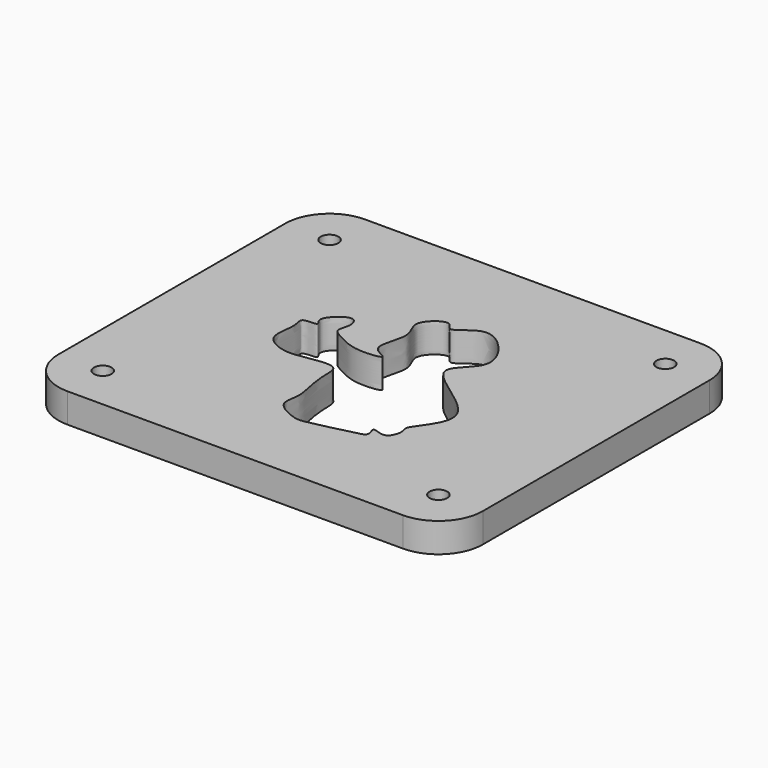
from build123d import *

# Parameters (mm, degrees)
F0_R     = 1.5
F1_DEPTH = 5


with BuildPart() as f1:
    # F0 (on Top) → F1 (new body)
    with BuildSketch(Plane.XY):
        with BuildLine():
            ThreePointArc((36.115, 24.13), (33.9065851301, 29.4615851301), (28.575, 31.67))
            Line((28.575, 31.67), (-28.575, 31.67))
            ThreePointArc((-28.575, 31.67), (-33.9065851301, 29.4615851301), (-36.115, 24.13))
            Line((-36.115, 24.13), (-36.115, -24.13))
            ThreePointArc((-36.115, -24.13), (-33.9065851301, -29.4615851301), (-28.575, -31.67))
            Line((-28.575, -31.67), (28.575, -31.67))
            ThreePointArc((28.575, -31.67), (33.9065851301, -29.4615851301), (36.115, -24.13))
            Line((36.115, -24.13), (36.115, 24.13))
        make_face()
        with Locations((-28.575, -24.13)):
            Circle(F0_R, mode=Mode.SUBTRACT)
        with Locations((28.575, -24.13)):
            Circle(F0_R, mode=Mode.SUBTRACT)
        with BuildLine():
            add(Edge.make_bspline(
                [(3.608973464, 16.1887034774), (2.171478593, 15.7227240843), (-0.1653323347, 12.8541616063), (-1.0015044911, 16.4801261118), (-5.849912091, 12.5702857027), (-2.196174551, 9.3719001246), (-5.6798757303, 3.4193753287), (-0.3424935067, 2.1318340705), (-6.4857255106, 1.3428230684), (-9.7211473353, 3.1977411729), (-12.0036311455, 4.3531492968), (-10.745480396, 6.6777362098), (-11.6646980606, 8.5795703079), (-13.496173318, 8.0752055155), (-15.9981659821, 5.5064797571), (-13.8838501889, 3.8259538881), (-17.7097684853, 4.3414842321), (-16.3632984322, 1.8503748311), (-17.9710058408, -2.7353167522), (-13.3129197506, -4.9276028672), (-9.8214206249, -4.2641033403), (-4.6174981093, -3.4167671203), (-4.8184035522, -6.8144937343), (-4.3491327576, -10.3871845751), (-3.4513802058, -13.6150765245), (-4.737210803, -16.8837480304), (-0.1589978757, -18.9985927457), (1.7523207798, -18.8149261343), (8.5184616697, -17.1731565546), (10.8460044637, -16.6095133795), (9.4010719634, -14.0517411172), (12.7688832537, -16.1773722624), (13.7521995056, -12.698140093), (12.4586014702, -11.482323148), (20.8690076409, -3.7916840729), (2.7372771032, 3.6501748446), (11.7484300393, 8.4495710968), (8.4529206623, 14.6229707937), (5.1630471581, 16.6924731474), (3.608973464, 16.1887034774)],
                knots=[0, 0, 0, 0, 0.0301205445, 0.0495430435, 0.0790058219, 0.1076783279, 0.1420008517, 0.1650962065, 0.1938800552, 0.2247664931, 0.245368425, 0.2672641246, 0.2861547813, 0.3050454221, 0.3310839447, 0.3474680589, 0.3690887047, 0.3890582612, 0.4198334151, 0.4494112237, 0.4789706833, 0.5093381931, 0.5325337549, 0.5613176142, 0.5883294216, 0.613291369, 0.643063481, 0.6653138995, 0.704492262, 0.7245393672, 0.7419523741, 0.7638480843, 0.7874556405, 0.8047797265, 0.8444289357, 0.8973294783, 0.9319252703, 0.9674367214, 1, 1, 1, 1], degree=3))
        make_face(mode=Mode.SUBTRACT)
        with Locations((-28.575, 24.13)):
            Circle(F0_R, mode=Mode.SUBTRACT)
        with Locations((28.575, 24.13)):
            Circle(F0_R, mode=Mode.SUBTRACT)
    extrude(amount=F1_DEPTH)


solid = f1.part
